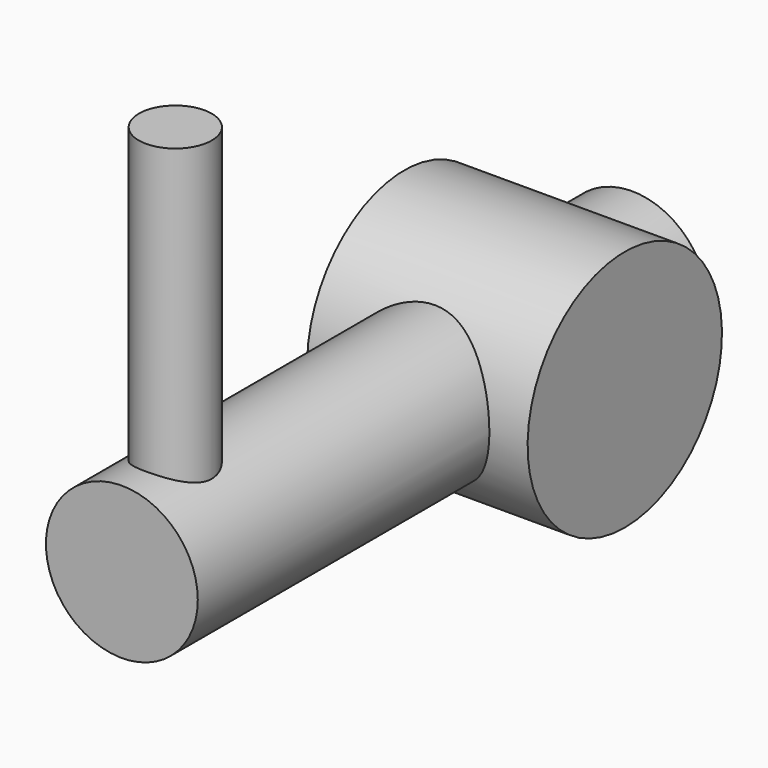
from build123d import *

# Parameters (mm, degrees)
CYLINDER009_R     = 2.5
CYLINDER009_DEPTH = 21
CYLINDER008_R     = 1.2
CYLINDER008_DEPTH = 12
CYLINDER007_R     = 4
CYLINDER007_DEPTH = 7.26


with BuildPart() as cylinder009:
    # Cylinder009 → Cylinder009 (new body)
    with BuildSketch(Plane(origin=(3.5, 5, 0), x_dir=(1, 0, 0), z_dir=(0, -1, 0))):
        Circle(CYLINDER009_R)
    extrude(amount=CYLINDER009_DEPTH)


with BuildPart() as cylinder008:
    # Cylinder008 → Cylinder008 (new body)
    with BuildSketch(Plane(origin=(3.5, -13.8, 0), x_dir=(1, 0, 0), z_dir=(0, 0, 1))):
        Circle(CYLINDER008_R)
    extrude(amount=CYLINDER008_DEPTH)


with BuildPart() as valve002:
    # Cylinder007 → Cylinder007 (new body)
    with BuildSketch(Plane(origin=(0, 0, 0), x_dir=(0, 0, -1), z_dir=(1, 0, 0))):
        Circle(CYLINDER007_R)
    extrude(amount=CYLINDER007_DEPTH)

    # Fusion002: union Cylinder009, Cylinder008
    add(cylinder009.part)
    add(cylinder008.part)


with BuildPart() as valve002_1:
    # Fusion002 placement: moved
    add(valve002.part.moved(Location((10, 0, 46.92))))


solid = valve002_1.part
